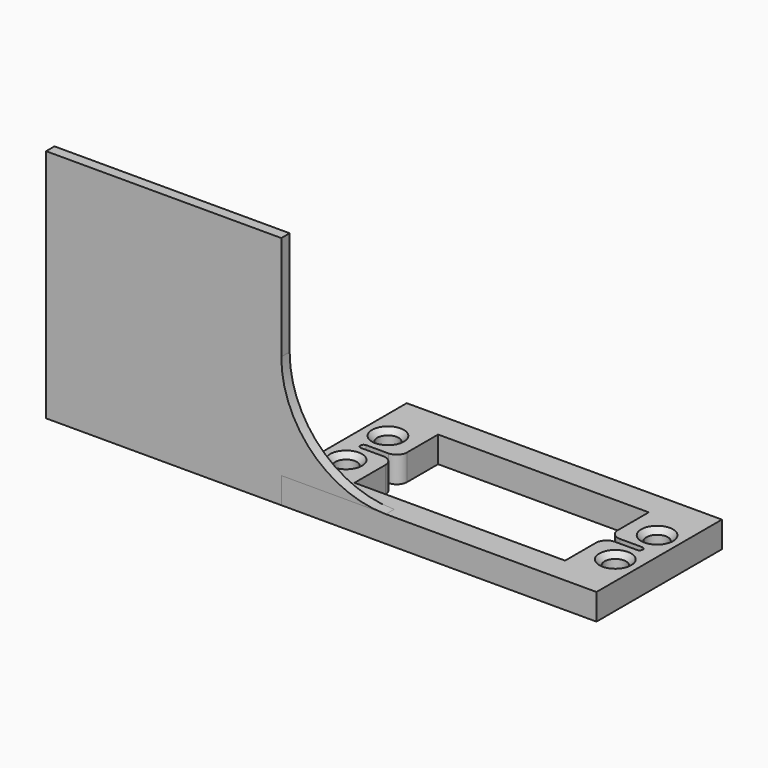
from build123d import *

# Parameters (mm, degrees)
F0_W     = 60.3
F0_H     = 30
F0_R     = 2.05
F1_DEPTH = 5
F3_DEPTH = 2
F4_SIZE  = 1


with BuildPart() as f1:
    # F0 (on Top) → F1 (new body)
    with BuildSketch(Plane.XY):
        Rectangle(F0_W, F0_H)
        with Locations((-25.75, -5)):
            Circle(F0_R, mode=Mode.SUBTRACT)
        with Locations((25.75, -5)):
            Circle(F0_R, mode=Mode.SUBTRACT)
        with Locations((-25.75, 5)):
            Circle(F0_R, mode=Mode.SUBTRACT)
        with BuildLine():
            Line((-20.15, 10), (0, 10))
            Line((0, 10), (20.15, 10))
            Line((20.15, 10), (20.15, 2.6))
            ThreePointArc((20.15, 2.6), (20.735786, 1.185786), (22.15, 0.6))
            Line((22.15, 0.6), (26.4, 0.6))
            ThreePointArc((26.4, 0.6), (26.824264, 0.424264), (27, 0))
            ThreePointArc((27, 0), (26.824264, -0.424264), (26.4, -0.6))
            Line((26.4, -0.6), (22.15, -0.6))
            ThreePointArc((22.15, -0.6), (20.735786, -1.185786), (20.15, -2.6))
            Line((20.15, -2.6), (20.15, -10))
            Line((20.15, -10), (0, -10))
            Line((0, -10), (-20.15, -10))
            Line((-20.15, -10), (-20.15, -2.6))
            ThreePointArc((-20.15, -2.6), (-20.735786, -1.185786), (-22.15, -0.6))
            Line((-22.15, -0.6), (-26.4, -0.6))
            ThreePointArc((-26.4, -0.6), (-26.824264, -0.424264), (-27, 0))
            ThreePointArc((-27, 0), (-26.824264, 0.424264), (-26.4, 0.6))
            Line((-26.4, 0.6), (-22.15, 0.6))
            ThreePointArc((-22.15, 0.6), (-20.735786, 1.185786), (-20.15, 2.6))
            Line((-20.15, 2.6), (-20.15, 10))
        make_face(mode=Mode.SUBTRACT)
        with Locations((25.75, 5)):
            Circle(F0_R, mode=Mode.SUBTRACT)
    extrude(amount=F1_DEPTH)

    # F4
    f4_edges = [f1.edges().sort_by_distance(p)[0] for p in [
        (-27.8, 5, 5),
        (-27.8, -5, 5),
        (23.7, -5, 5),
        (23.7, 5, 5),
    ]]
    chamfer(f4_edges, length=F4_SIZE)


with BuildPart() as f3:
    # F2 (on face) → F3 (new body)
    with BuildSketch(Plane.XZ.offset(15)):
        with BuildLine():
            Line((-75.15, 0), (-30.15, 0))
            Line((-30.15, 0), (-30.15, 5))
            Line((-30.15, 5), (-10.15, 5))
            ThreePointArc((-10.15, 5), (-24.292136, 10.857864), (-30.15, 25))
            Line((-30.15, 25), (-30.15, 45))
            Line((-30.15, 45), (-75.15, 45))
            Line((-75.15, 45), (-75.15, 0))
        make_face()
    extrude(amount=-F3_DEPTH)


solid = Compound([f1.part, f3.part])
